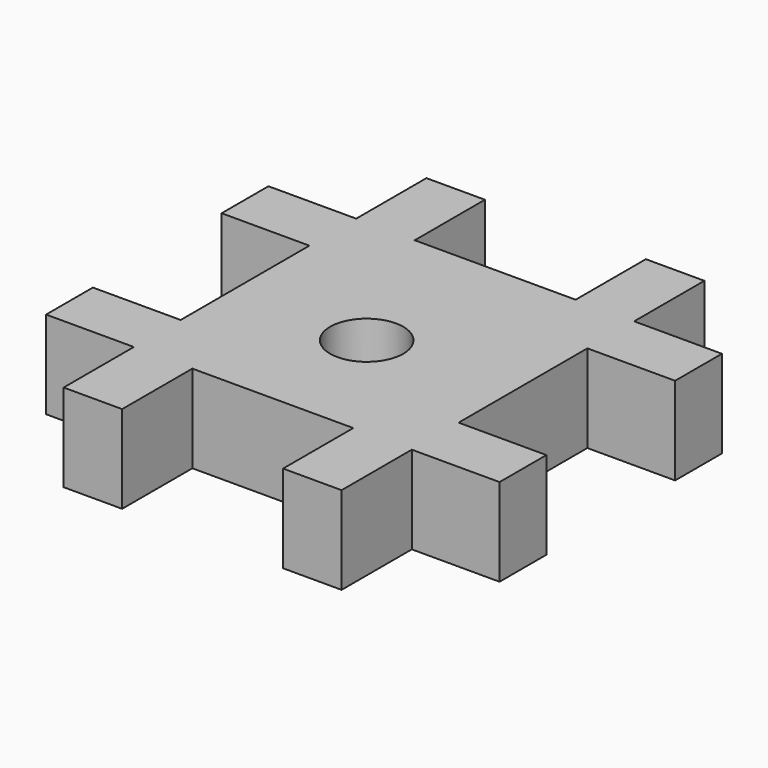
from build123d import *

# Parameters (mm, degrees)
F0_W     = 98.425
F0_H     = 98.425
F1_DEPTH = 19.05
F2_W     = 19.05
F2_H     = 19.05
F2_H_2   = 34.925
F2_W_2   = 34.925
F3_DEPTH = 19.051
F4_R     = 7.9375
F5_DEPTH = 19.051


with BuildPart() as f1:
    # F0 (on Top) → F1 (new body)
    with BuildSketch(Plane.XY):
        with Locations((0.8939672261, 3.5788302732)):
            Rectangle(F0_W, F0_H)
    extrude(amount=F1_DEPTH)

    # F2 (on face) → F3 (cut, through all)
    with BuildSketch(Plane.XY.offset(19.05)):
        with Locations((-38.7935327739, 43.2663302732)):
            Rectangle(F2_W, F2_H)
        with Locations((40.5814672261, 43.2663302732)):
            Rectangle(F2_W, F2_H)
        with Locations((-38.7935327739, -36.1086697268)):
            Rectangle(F2_W, F2_H)
        with Locations((40.5814672261, -36.1086697268)):
            Rectangle(F2_W, F2_H)
        with Locations((40.5814672261, 3.5788302732)):
            Rectangle(F2_W, F2_H_2)
        with Locations((-38.7935327739, 3.5788302732)):
            Rectangle(F2_W, F2_H_2)
        with Locations((0.8939672261, 43.2663302732)):
            Rectangle(F2_W_2, F2_H)
        with Locations((0.8939672261, -36.1086697268)):
            Rectangle(F2_W_2, F2_H)
    extrude(amount=-F3_DEPTH, mode=Mode.SUBTRACT)

    # F4 (on face) → F5 (cut, through all)
    with BuildSketch(Plane.XY.offset(19.05)):
        Circle(F4_R)
    extrude(amount=-F5_DEPTH, mode=Mode.SUBTRACT)


solid = f1.part
